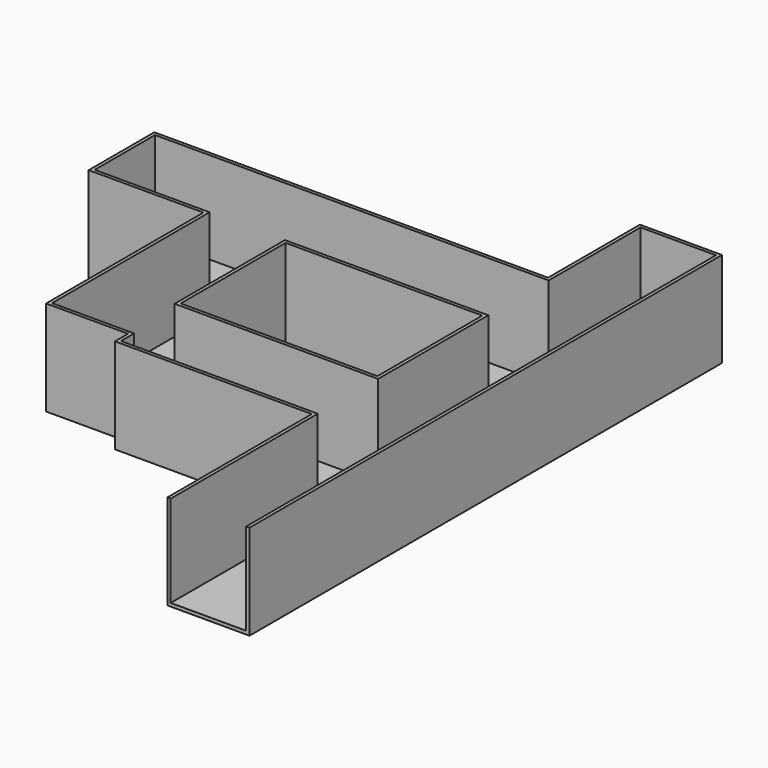
from build123d import *

# Parameters (mm, degrees)
F1_DEPTH = 30
F2_T     = -1
F3_DEPTH = 1


with BuildPart() as f1:
    # F0 (on Top) → F1 (new body)
    with BuildSketch(Plane.XY):
        Polygon((0, -120), (0, 0), (-25, 0), (-25, -35), (-25, -60), (-25, -100), (-25, -120), align=None)
        Polygon((0, -180), (0, -120), (-25, -120), (-25, -125), (-25, -180), align=None)
        Polygon((-25, -60), (-25, -35), (-145, -35), (-145, -60), (-110, -60), (-85, -60), align=None)
        Polygon((-25, -125), (-25, -120), (-25, -100), (-85, -100), (-85, -120), (-85, -125), align=None)
        Polygon((-85, -100), (-85, -60), (-110, -60), (-110, -120), (-85, -120), align=None)
    extrude(amount=F1_DEPTH)

    # F2
    f2_openings = [f1.faces().sort_by_distance(p)[0] for p in [
        (-12.5, -180, 15),
    ]]
    offset(amount=F2_T, openings=f2_openings, kind=Kind.INTERSECTION)

    # F3 (cut): a face of the model
    f3_faces = [f1.faces().sort_by_distance(p)[0] for p in [
        (-12.5, -2.3113848663, 30),
    ]]
    extrude(f3_faces, amount=-F3_DEPTH, mode=Mode.SUBTRACT)


solid = f1.part
